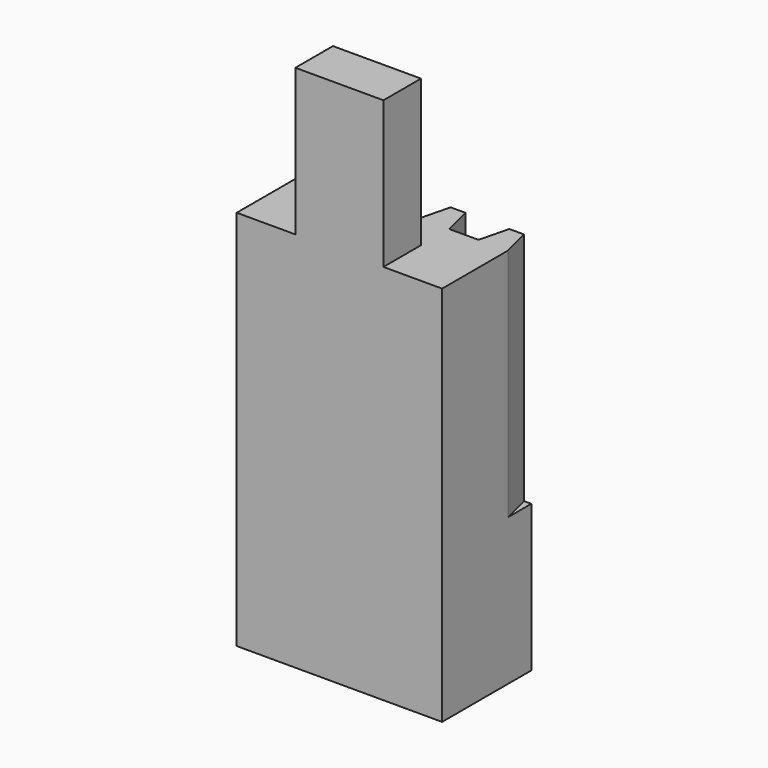
from build123d import *

# Parameters (mm, degrees)
PAD_DEPTH    = 8
SKETCH001_W  = 7
SKETCH001_H  = 5
PAD001_DEPTH = 5
SKETCH002_W  = 3
SKETCH002_H  = 1.6
PAD002_DEPTH = 5
SKETCH003_W  = 7
SKETCH003_H  = 1.2
POCKET_DEPTH = 13.001


with BuildPart() as part:
    # Sketch → Pad (new body)
    with BuildSketch(Plane.XY):
        Polygon((-3.5, 2), (-3.25, 3), (-2.75, 3), (-2.5, 2), (-1.5, 2), (-1.25, 3), (-0.75, 3), (-0.5, 2), (0.5, 2), (0.75, 3), (1.25, 3), (1.5, 2), (2.5, 2), (2.75, 3), (3.25, 3), (3.5, 2), (3.5, -2), (-3.5, -2), align=None)
    extrude(amount=PAD_DEPTH)

    # Sketch001 → Pad001 (new body)
    with BuildSketch(Plane(origin=(0, 0, 0), x_dir=(1, 0, 0), z_dir=(0, 0, -1))):
        with Locations((0, -0.5)):
            Rectangle(SKETCH001_W, SKETCH001_H)
    extrude(amount=PAD001_DEPTH)

    # Sketch002 → Pad002 (new body)
    with BuildSketch(Plane.XY.offset(8)):
        Rectangle(SKETCH002_W, SKETCH002_H)
    extrude(amount=PAD002_DEPTH)

    # Sketch003 → Pocket (cut, through all)
    with BuildSketch(Plane.XY.offset(8)):
        with Locations((0, -1.4)):
            Rectangle(SKETCH003_W, SKETCH003_H)
    extrude(amount=-POCKET_DEPTH, mode=Mode.SUBTRACT)


solid = part.part
